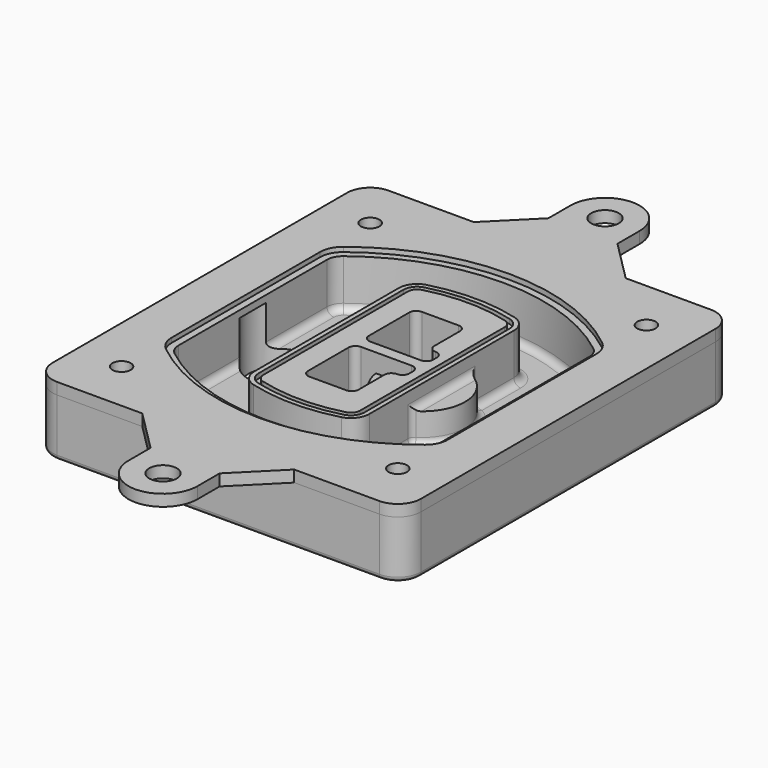
from build123d import *

# Parameters (mm, degrees)
F0_R      = 4
F1_DEPTH  = 25
F2_DEPTH  = 3
F3_DEPTH  = 18
F5_DEPTH  = 21
F6_DEPTH  = 2
F8_DEPTH  = 20
F9_DEPTH  = 16
F10_DEPTH = 25
F7_R      = 6
F7_R_2    = 4
F11_DEPTH = 6
F13_DEPTH = 9
F14_R     = 3
F15_R     = 2
F16_R     = 4
F16_R_2   = 6
F17_DEPTH = 5


with BuildPart() as f1:
    # F0 (on Top) → F1 (new body)
    with BuildSketch(Plane.XY):
        with BuildLine():
            ThreePointArc((-80, -80), (-77.0710678119, -87.0710678119), (-70, -90))
            Line((-70, -90), (70, -90))
            ThreePointArc((70, -90), (77.0710678119, -87.0710678119), (80, -80))
            Line((80, -80), (80, 80))
            ThreePointArc((80, 80), (77.0710678119, 87.0710678119), (70, 90))
            Line((70, 90), (-70, 90))
            ThreePointArc((-70, 90), (-77.0710678119, 87.0710678119), (-80, 80))
            Line((-80, 80), (-80, -80))
        make_face()
        with Locations((-60, -67.5)):
            Circle(F0_R, mode=Mode.SUBTRACT)
        with Locations((60, -67.5)):
            Circle(F0_R, mode=Mode.SUBTRACT)
        with Locations((-60, 67.5)):
            Circle(F0_R, mode=Mode.SUBTRACT)
        with BuildLine():
            ThreePointArc((-64, 40.2934422872), (-62.5820384798, 46.4328484224), (-58.6153846154, 51.3286200352))
            ThreePointArc((-58.6153846154, 51.3286200352), (0, 71.5), (58.6153846154, 51.3286200352))
            ThreePointArc((58.6153846154, 51.3286200352), (62.5820384798, 46.4328484224), (64, 40.2934422872))
            Line((64, 40.2934422872), (64, -40.2934422872))
            ThreePointArc((64, -40.2934422872), (62.5820384798, -46.4328484224), (58.6153846154, -51.3286200352))
            ThreePointArc((58.6153846154, -51.3286200352), (0, -71.5), (-58.6153846154, -51.3286200352))
            ThreePointArc((-58.6153846154, -51.3286200352), (-62.5820384798, -46.4328484224), (-64, -40.2934422872))
            Line((-64, -40.2934422872), (-64, 40.2934422872))
        make_face(mode=Mode.SUBTRACT)
        with Locations((60, 67.5)):
            Circle(F0_R, mode=Mode.SUBTRACT)
        with BuildLine():
            ThreePointArc((58.6153846154, 51.3286200352), (0, 71.5), (-58.6153846154, 51.3286200352))
            ThreePointArc((-58.6153846154, 51.3286200352), (-62.5820384798, 46.4328484224), (-64, 40.2934422872))
            Line((-64, 40.2934422872), (-64, -40.2934422872))
            ThreePointArc((-64, -40.2934422872), (-62.5820384798, -46.4328484224), (-58.6153846154, -51.3286200352))
            ThreePointArc((-58.6153846154, -51.3286200352), (0, -71.5), (58.6153846154, -51.3286200352))
            ThreePointArc((58.6153846154, -51.3286200352), (62.5820384798, -46.4328484224), (64, -40.2934422872))
            Line((64, -40.2934422872), (64, 40.2934422872))
            ThreePointArc((64, 40.2934422872), (62.5820384798, 46.4328484224), (58.6153846154, 51.3286200352))
        make_face()
        with BuildLine():
            Line((-60, -40.2934422872), (-60, 40.2934422872))
            ThreePointArc((-60, 40.2934422872), (-58.9871703427, 44.6787323838), (-56.1538461538, 48.1757121072))
            ThreePointArc((-56.1538461538, 48.1757121072), (0, 67.5), (56.1538461538, 48.1757121072))
            ThreePointArc((56.1538461538, 48.1757121072), (58.9871703427, 44.6787323838), (60, 40.2934422872))
            Line((60, 40.2934422872), (60, -40.2934422872))
            ThreePointArc((60, -40.2934422872), (58.9871703427, -44.6787323838), (56.1538461538, -48.1757121072))
            ThreePointArc((56.1538461538, -48.1757121072), (0, -67.5), (-56.1538461538, -48.1757121072))
            ThreePointArc((-56.1538461538, -48.1757121072), (-58.9871703427, -44.6787323838), (-60, -40.2934422872))
        make_face(mode=Mode.SUBTRACT)
        with BuildLine():
            ThreePointArc((-56.1538461538, 48.1757121072), (-58.9871703427, 44.6787323838), (-60, 40.2934422872))
            Line((-60, 40.2934422872), (-60, -40.2934422872))
            ThreePointArc((-60, -40.2934422872), (-58.9871703427, -44.6787323838), (-56.1538461538, -48.1757121072))
            ThreePointArc((-56.1538461538, -48.1757121072), (0, -67.5), (56.1538461538, -48.1757121072))
            ThreePointArc((56.1538461538, -48.1757121072), (58.9871703427, -44.6787323838), (60, -40.2934422872))
            Line((60, -40.2934422872), (60, 40.2934422872))
            ThreePointArc((60, 40.2934422872), (58.9871703427, 44.6787323838), (56.1538461538, 48.1757121072))
            ThreePointArc((56.1538461538, 48.1757121072), (0, 67.5), (-56.1538461538, 48.1757121072))
        make_face()
        with BuildLine():
            ThreePointArc((54.3076923077, 45.8110311612), (56.2910192399, 43.3631453548), (57, 40.2934422872))
            Line((57, 40.2934422872), (57, -40.2934422872))
            ThreePointArc((57, -40.2934422872), (56.2910192399, -43.3631453548), (54.3076923077, -45.8110311612))
            ThreePointArc((54.3076923077, -45.8110311612), (0, -64.5), (-54.3076923077, -45.8110311612))
            ThreePointArc((-54.3076923077, -45.8110311612), (-56.2910192399, -43.3631453548), (-57, -40.2934422872))
            Line((-57, -40.2934422872), (-57, 40.2934422872))
            ThreePointArc((-57, 40.2934422872), (-56.2910192399, 43.3631453548), (-54.3076923077, 45.8110311612))
            ThreePointArc((-54.3076923077, 45.8110311612), (0, 64.5), (54.3076923077, 45.8110311612))
        make_face(mode=Mode.SUBTRACT)
        with BuildLine():
            Line((57, -40.2934422872), (57, 40.2934422872))
            ThreePointArc((57, 40.2934422872), (56.2910192399, 43.3631453548), (54.3076923077, 45.8110311612))
            ThreePointArc((54.3076923077, 45.8110311612), (0, 64.5), (-54.3076923077, 45.8110311612))
            ThreePointArc((-54.3076923077, 45.8110311612), (-56.2910192399, 43.3631453548), (-57, 40.2934422872))
            Line((-57, 40.2934422872), (-57, -40.2934422872))
            ThreePointArc((-57, -40.2934422872), (-56.2910192399, -43.3631453548), (-54.3076923077, -45.8110311612))
            ThreePointArc((-54.3076923077, -45.8110311612), (0, -64.5), (54.3076923077, -45.8110311612))
            ThreePointArc((54.3076923077, -45.8110311612), (56.2910192399, -43.3631453548), (57, -40.2934422872))
        make_face()
    extrude(amount=-F1_DEPTH)

    # F0 (on Top) → F2 (join)
    with BuildSketch(Plane.XY):
        with BuildLine():
            ThreePointArc((-56.1538461538, 48.1757121072), (-58.9871703427, 44.6787323838), (-60, 40.2934422872))
            Line((-60, 40.2934422872), (-60, -40.2934422872))
            ThreePointArc((-60, -40.2934422872), (-58.9871703427, -44.6787323838), (-56.1538461538, -48.1757121072))
            ThreePointArc((-56.1538461538, -48.1757121072), (0, -67.5), (56.1538461538, -48.1757121072))
            ThreePointArc((56.1538461538, -48.1757121072), (58.9871703427, -44.6787323838), (60, -40.2934422872))
            Line((60, -40.2934422872), (60, 40.2934422872))
            ThreePointArc((60, 40.2934422872), (58.9871703427, 44.6787323838), (56.1538461538, 48.1757121072))
            ThreePointArc((56.1538461538, 48.1757121072), (0, 67.5), (-56.1538461538, 48.1757121072))
        make_face()
        with BuildLine():
            ThreePointArc((54.3076923077, 45.8110311612), (56.2910192399, 43.3631453548), (57, 40.2934422872))
            Line((57, 40.2934422872), (57, -40.2934422872))
            ThreePointArc((57, -40.2934422872), (56.2910192399, -43.3631453548), (54.3076923077, -45.8110311612))
            ThreePointArc((54.3076923077, -45.8110311612), (0, -64.5), (-54.3076923077, -45.8110311612))
            ThreePointArc((-54.3076923077, -45.8110311612), (-56.2910192399, -43.3631453548), (-57, -40.2934422872))
            Line((-57, -40.2934422872), (-57, 40.2934422872))
            ThreePointArc((-57, 40.2934422872), (-56.2910192399, 43.3631453548), (-54.3076923077, 45.8110311612))
            ThreePointArc((-54.3076923077, 45.8110311612), (0, 64.5), (54.3076923077, 45.8110311612))
        make_face(mode=Mode.SUBTRACT)
    extrude(amount=F2_DEPTH)

    # F0 (on Top) → F3 (cut)
    with BuildSketch(Plane.XY):
        with BuildLine():
            Line((57, -40.2934422872), (57, 40.2934422872))
            ThreePointArc((57, 40.2934422872), (56.2910192399, 43.3631453548), (54.3076923077, 45.8110311612))
            ThreePointArc((54.3076923077, 45.8110311612), (0, 64.5), (-54.3076923077, 45.8110311612))
            ThreePointArc((-54.3076923077, 45.8110311612), (-56.2910192399, 43.3631453548), (-57, 40.2934422872))
            Line((-57, 40.2934422872), (-57, -40.2934422872))
            ThreePointArc((-57, -40.2934422872), (-56.2910192399, -43.3631453548), (-54.3076923077, -45.8110311612))
            ThreePointArc((-54.3076923077, -45.8110311612), (0, -64.5), (54.3076923077, -45.8110311612))
            ThreePointArc((54.3076923077, -45.8110311612), (56.2910192399, -43.3631453548), (57, -40.2934422872))
        make_face()
    extrude(amount=-F3_DEPTH, mode=Mode.SUBTRACT)

    # F4 (on face) → F5 (join, through all)
    with BuildSketch(Plane.XY.offset(3)):
        with BuildLine():
            ThreePointArc((-25, -39.2465276821), (-23.3511545998, -44.1109737193), (-19.0842911877, -46.9702398883))
            ThreePointArc((-19.0842911877, -46.9702398883), (0, -49.5), (19.0842911877, -46.9702398883))
            ThreePointArc((19.0842911877, -46.9702398883), (23.3511545998, -44.1109737193), (25, -39.2465276821))
            Line((25, -39.2465276821), (25, 39.2465276821))
            ThreePointArc((25, 39.2465276821), (23.3511545998, 44.1109737193), (19.0842911877, 46.9702398883))
            ThreePointArc((19.0842911877, 46.9702398883), (0, 49.5), (-19.0842911877, 46.9702398883))
            ThreePointArc((-19.0842911877, 46.9702398883), (-23.3511545998, 44.1109737193), (-25, 39.2465276821))
            Line((-25, 39.2465276821), (-25, -39.2465276821))
        make_face()
        with BuildLine():
            ThreePointArc((18.5632183908, 45.0393118368), (21.7633659499, 42.89486221), (23, 39.2465276821))
            Line((23, 39.2465276821), (23, -39.2465276821))
            ThreePointArc((23, -39.2465276821), (21.7633659499, -42.89486221), (18.5632183908, -45.0393118368))
            ThreePointArc((18.5632183908, -45.0393118368), (0, -47.5), (-18.5632183908, -45.0393118368))
            ThreePointArc((-18.5632183908, -45.0393118368), (-21.7633659499, -42.89486221), (-23, -39.2465276821))
            Line((-23, -39.2465276821), (-23, 39.2465276821))
            ThreePointArc((-23, 39.2465276821), (-21.7633659499, 42.89486221), (-18.5632183908, 45.0393118368))
            ThreePointArc((-18.5632183908, 45.0393118368), (0, 47.5), (18.5632183908, 45.0393118368))
        make_face(mode=Mode.SUBTRACT)
        with BuildLine():
            Line((23, -39.2465276821), (23, 39.2465276821))
            ThreePointArc((23, 39.2465276821), (21.7633659499, 42.89486221), (18.5632183908, 45.0393118368))
            ThreePointArc((18.5632183908, 45.0393118368), (0, 47.5), (-18.5632183908, 45.0393118368))
            ThreePointArc((-18.5632183908, 45.0393118368), (-21.7633659499, 42.89486221), (-23, 39.2465276821))
            Line((-23, 39.2465276821), (-23, -39.2465276821))
            ThreePointArc((-23, -39.2465276821), (-21.7633659499, -42.89486221), (-18.5632183908, -45.0393118368))
            ThreePointArc((-18.5632183908, -45.0393118368), (0, -47.5), (18.5632183908, -45.0393118368))
            ThreePointArc((18.5632183908, -45.0393118368), (21.7633659499, -42.89486221), (23, -39.2465276821))
        make_face()
        with BuildLine():
            ThreePointArc((18.0421455939, 43.1083837852), (20.1755772999, 41.6787507007), (21, 39.2465276821))
            Line((21, 39.2465276821), (21, -39.2465276821))
            ThreePointArc((21, -39.2465276821), (20.1755772999, -41.6787507007), (18.0421455939, -43.1083837852))
            ThreePointArc((18.0421455939, -43.1083837852), (0, -45.5), (-18.0421455939, -43.1083837852))
            ThreePointArc((-18.0421455939, -43.1083837852), (-20.1755772999, -41.6787507007), (-21, -39.2465276821))
            Line((-21, -39.2465276821), (-21, 39.2465276821))
            ThreePointArc((-21, 39.2465276821), (-20.1755772999, 41.6787507007), (-18.0421455939, 43.1083837852))
            ThreePointArc((-18.0421455939, 43.1083837852), (0, 45.5), (18.0421455939, 43.1083837852))
        make_face(mode=Mode.SUBTRACT)
        with BuildLine():
            Line((21, -39.2465276821), (21, 39.2465276821))
            ThreePointArc((21, 39.2465276821), (20.1755772999, 41.6787507007), (18.0421455939, 43.1083837852))
            ThreePointArc((18.0421455939, 43.1083837852), (0, 45.5), (-18.0421455939, 43.1083837852))
            ThreePointArc((-18.0421455939, 43.1083837852), (-20.1755772999, 41.6787507007), (-21, 39.2465276821))
            Line((-21, 39.2465276821), (-21, -39.2465276821))
            ThreePointArc((-21, -39.2465276821), (-20.1755772999, -41.6787507007), (-18.0421455939, -43.1083837852))
            ThreePointArc((-18.0421455939, -43.1083837852), (0, -45.5), (18.0421455939, -43.1083837852))
            ThreePointArc((18.0421455939, -43.1083837852), (20.1755772999, -41.6787507007), (21, -39.2465276821))
        make_face()
        with BuildLine():
            Line((-8, -2.5), (14, -2.5))
            ThreePointArc((14, -2.5), (16.1213203436, -3.3786796564), (17, -5.5))
            Line((17, -5.5), (17, -7.5))
            ThreePointArc((17, -7.5), (16.1213203436, -9.6213203436), (14, -10.5))
            ThreePointArc((14, -10.5), (11.8786796564, -11.3786796564), (11, -13.5))
            Line((11, -13.5), (11, -27.5))
            ThreePointArc((11, -27.5), (10.1213203436, -29.6213203436), (8, -30.5))
            Line((8, -30.5), (-8, -30.5))
            ThreePointArc((-8, -30.5), (-10.1213203436, -29.6213203436), (-11, -27.5))
            Line((-11, -27.5), (-11, -5.5))
            ThreePointArc((-11, -5.5), (-10.1213203436, -3.3786796564), (-8, -2.5))
        make_face(mode=Mode.SUBTRACT)
        with BuildLine():
            ThreePointArc((-8, 2.5), (-10.1213203436, 3.3786796564), (-11, 5.5))
            Line((-11, 5.5), (-11, 27.5))
            ThreePointArc((-11, 27.5), (-10.1213203436, 29.6213203436), (-8, 30.5))
            Line((-8, 30.5), (8, 30.5))
            ThreePointArc((8, 30.5), (10.1213203436, 29.6213203436), (11, 27.5))
            Line((11, 27.5), (11, 13.5))
            ThreePointArc((11, 13.5), (11.8786796564, 11.3786796564), (14, 10.5))
            ThreePointArc((14, 10.5), (16.1213203436, 9.6213203436), (17, 7.5))
            Line((17, 7.5), (17, 5.5))
            ThreePointArc((17, 5.5), (16.1213203436, 3.3786796564), (14, 2.5))
            Line((14, 2.5), (-8, 2.5))
        make_face(mode=Mode.SUBTRACT)
    extrude(amount=-F5_DEPTH)

    # F4 (on face) → F6 (cut)
    with BuildSketch(Plane.XY.offset(3)):
        with BuildLine():
            Line((23, -39.2465276821), (23, 39.2465276821))
            ThreePointArc((23, 39.2465276821), (21.7633659499, 42.89486221), (18.5632183908, 45.0393118368))
            ThreePointArc((18.5632183908, 45.0393118368), (0, 47.5), (-18.5632183908, 45.0393118368))
            ThreePointArc((-18.5632183908, 45.0393118368), (-21.7633659499, 42.89486221), (-23, 39.2465276821))
            Line((-23, 39.2465276821), (-23, -39.2465276821))
            ThreePointArc((-23, -39.2465276821), (-21.7633659499, -42.89486221), (-18.5632183908, -45.0393118368))
            ThreePointArc((-18.5632183908, -45.0393118368), (0, -47.5), (18.5632183908, -45.0393118368))
            ThreePointArc((18.5632183908, -45.0393118368), (21.7633659499, -42.89486221), (23, -39.2465276821))
        make_face()
        with BuildLine():
            ThreePointArc((18.0421455939, 43.1083837852), (20.1755772999, 41.6787507007), (21, 39.2465276821))
            Line((21, 39.2465276821), (21, -39.2465276821))
            ThreePointArc((21, -39.2465276821), (20.1755772999, -41.6787507007), (18.0421455939, -43.1083837852))
            ThreePointArc((18.0421455939, -43.1083837852), (0, -45.5), (-18.0421455939, -43.1083837852))
            ThreePointArc((-18.0421455939, -43.1083837852), (-20.1755772999, -41.6787507007), (-21, -39.2465276821))
            Line((-21, -39.2465276821), (-21, 39.2465276821))
            ThreePointArc((-21, 39.2465276821), (-20.1755772999, 41.6787507007), (-18.0421455939, 43.1083837852))
            ThreePointArc((-18.0421455939, 43.1083837852), (0, 45.5), (18.0421455939, 43.1083837852))
        make_face(mode=Mode.SUBTRACT)
    extrude(amount=-F6_DEPTH, mode=Mode.SUBTRACT)

    # F7 (on face) → F8 (join)
    with BuildSketch(Plane(origin=(0, 0, -25), x_dir=(1, 0, 0), z_dir=(0, 0, -1))):
        with BuildLine():
            ThreePointArc((3.28842436, 0), (16.7567035675, 13.4682792075), (30.224982775, 0))
            Line((30.224982775, 0), (35.224982775, 0))
            ThreePointArc((35.224982775, 0), (16.7567035675, 18.4682792075), (-1.71157564, 0))
            Line((-1.71157564, 0), (3.28842436, 0))
        make_face()
        with BuildLine():
            Line((3.28842436, 0), (30.224982775, 0))
            ThreePointArc((30.224982775, 0), (16.7567035675, 13.4682792075), (3.28842436, 0))
        make_face()
        with BuildLine():
            ThreePointArc((3.28842436, 0), (16.7567035675, -13.4682792075), (30.224982775, 0))
            Line((30.224982775, 0), (3.28842436, 0))
        make_face()
        with BuildLine():
            Line((35.224982775, 0), (30.224982775, 0))
            ThreePointArc((30.224982775, 0), (16.7567035675, -13.4682792075), (3.28842436, 0))
            Line((3.28842436, 0), (-1.71157564, 0))
            ThreePointArc((-1.71157564, 0), (16.7567035675, -18.4682792075), (35.224982775, 0))
        make_face()
    extrude(amount=-F8_DEPTH)

    # F7 (on face) → F9 (cut)
    with BuildSketch(Plane(origin=(0, 0, -25), x_dir=(1, 0, 0), z_dir=(0, 0, -1))):
        with BuildLine():
            Line((3.28842436, 0), (30.224982775, 0))
            ThreePointArc((30.224982775, 0), (16.7567035675, 13.4682792075), (3.28842436, 0))
        make_face()
        with BuildLine():
            ThreePointArc((3.28842436, 0), (16.7567035675, -13.4682792075), (30.224982775, 0))
            Line((30.224982775, 0), (3.28842436, 0))
        make_face()
    extrude(amount=-F9_DEPTH, mode=Mode.SUBTRACT)

    # F7 (on face) → F10 (cut)
    with BuildSketch(Plane(origin=(0, 0, -25), x_dir=(1, 0, 0), z_dir=(0, 0, -1))):
        with BuildLine():
            Line((-59.0318229325, 0), (-32.0952645175, 0))
            ThreePointArc((-32.0952645175, 0), (-45.563543725, 13.4682792075), (-59.0318229325, 0))
        make_face()
        with BuildLine():
            ThreePointArc((-59.0318229325, 0), (-45.563543725, -13.4682792075), (-32.0952645175, 0))
            Line((-32.0952645175, 0), (-59.0318229325, 0))
        make_face()
    extrude(amount=-F10_DEPTH, mode=Mode.SUBTRACT)

    # F7 (on face) → F11 (cut)
    with BuildSketch(Plane(origin=(0, 0, -25), x_dir=(1, 0, 0), z_dir=(0, 0, -1))):
        with Locations((60, -67.5)):
            Circle(F7_R)
        with Locations((60, -67.5)):
            Circle(F7_R_2, mode=Mode.SUBTRACT)
        with Locations((60, -67.5)):
            Circle(F7_R)
        with Locations((60, -67.5)):
            Circle(F7_R_2, mode=Mode.SUBTRACT)
        with Locations((-60, -67.5)):
            Circle(F7_R)
        with Locations((-60, -67.5)):
            Circle(F7_R_2, mode=Mode.SUBTRACT)
        with Locations((-60, -67.5)):
            Circle(F7_R)
        with Locations((-60, -67.5)):
            Circle(F7_R_2, mode=Mode.SUBTRACT)
        with Locations((-60, 67.5)):
            Circle(F7_R)
        with Locations((-60, 67.5)):
            Circle(F7_R_2, mode=Mode.SUBTRACT)
        with Locations((-60, 67.5)):
            Circle(F7_R)
        with Locations((-60, 67.5)):
            Circle(F7_R_2, mode=Mode.SUBTRACT)
        with Locations((60, 67.5)):
            Circle(F7_R)
        with Locations((60, 67.5)):
            Circle(F7_R_2, mode=Mode.SUBTRACT)
        with Locations((60, 67.5)):
            Circle(F7_R)
        with Locations((60, 67.5)):
            Circle(F7_R_2, mode=Mode.SUBTRACT)
    extrude(amount=-F11_DEPTH, mode=Mode.SUBTRACT)

    # F12 (on face) → F13 (cut, through all)
    with BuildSketch(Plane(origin=(0, 0, -9), x_dir=(1, 0, 0), z_dir=(0, 0, -1))):
        with BuildLine():
            Line((11, 13.5), (11, 17.5481537753))
            ThreePointArc((11, 17.5481537753), (2.5696536419, 11.8239143813), (-1.5415842455, 2.5))
            Line((-1.5415842455, 2.5), (3.5224848595, 2.5))
            ThreePointArc((3.5224848595, 2.5), (6.1857188154, 8.3455872281), (11.2536447004, 12.2927168648))
            ThreePointArc((11.2536447004, 12.2927168648), (11.0640958889, 12.8831798879), (11, 13.5))
        make_face()
        with BuildLine():
            ThreePointArc((11.2536447004, -12.2927168648), (6.1857188154, -8.3455872281), (3.5224848595, -2.5))
            Line((3.5224848595, -2.5), (-1.5415842455, -2.5))
            ThreePointArc((-1.5415842455, -2.5), (2.5696536419, -11.8239143813), (11, -17.5481537753))
            Line((11, -17.5481537753), (11, -13.5))
            ThreePointArc((11, -13.5), (11.0640958889, -12.8831798879), (11.2536447004, -12.2927168648))
        make_face()
        with BuildLine():
            ThreePointArc((11.2536447004, 12.2927168648), (6.1857188154, 8.3455872281), (3.5224848595, 2.5))
            Line((3.5224848595, 2.5), (14, 2.5))
            ThreePointArc((14, 2.5), (16.1213203436, 3.3786796564), (17, 5.5))
            Line((17, 5.5), (17, 7.5))
            ThreePointArc((17, 7.5), (16.1213203436, 9.6213203436), (14, 10.5))
            ThreePointArc((14, 10.5), (12.3601599782, 10.9878446101), (11.2536447004, 12.2927168648))
        make_face()
        with BuildLine():
            Line((14, -2.5), (3.5224848595, -2.5))
            ThreePointArc((3.5224848595, -2.5), (6.1857188154, -8.3455872281), (11.2536447004, -12.2927168648))
            ThreePointArc((11.2536447004, -12.2927168648), (12.3601599782, -10.9878446101), (14, -10.5))
            ThreePointArc((14, -10.5), (16.1213203436, -9.6213203436), (17, -7.5))
            Line((17, -7.5), (17, -5.5))
            ThreePointArc((17, -5.5), (16.1213203436, -3.3786796564), (14, -2.5))
        make_face()
    extrude(amount=F13_DEPTH, mode=Mode.SUBTRACT)

    # F14
    f14_edges = [f1.edges().sort_by_distance(p)[0] for p in [
        (-57, -23.703476, -18),
        (-57, 23.703476, -18),
        (25, 0, -5),
        (25, 16.526506, -11.5),
        (25, -16.526506, -11.5),
        (25, -27.886517, -18),
        (35.224983, 0, -18),
    ]]
    fillet(f14_edges, radius=F14_R)

    # F15
    f15_edges = [f1.edges().sort_by_distance(p)[0] for p in [
        (0, -90, -25),
    ]]
    fillet(f15_edges, radius=F15_R)


with BuildPart() as f17:
    # F16 (on face) → F17 (new body)
    with BuildSketch(Plane.XY):
        with BuildLine():
            ThreePointArc((15, 120), (0, 135), (-15, 120))
            Line((-15, 120), (-15, 108))
            Line((-15, 108), (-33, 90))
            Line((-33, 90), (-70, 90))
            ThreePointArc((-70, 90), (-77.0710678119, 87.0710678119), (-80, 80))
            Line((-80, 80), (-80, -80))
            ThreePointArc((-80, -80), (-77.0710678119, -87.0710678119), (-70, -90))
            Line((-70, -90), (-33, -90))
            Line((-33, -90), (-15, -108))
            Line((-15, -108), (-15, -120))
            ThreePointArc((-15, -120), (0, -135), (15, -120))
            Line((15, -120), (15, -108))
            Line((15, -108), (33, -90))
            Line((33, -90), (70, -90))
            ThreePointArc((70, -90), (77.0710678119, -87.0710678119), (80, -80))
            Line((80, -80), (80, 80))
            ThreePointArc((80, 80), (77.0710678119, 87.0710678119), (70, 90))
            Line((70, 90), (33, 90))
            Line((33, 90), (15, 108))
            Line((15, 108), (15, 120))
        make_face()
        with Locations((-60, -67.5)):
            Circle(F16_R, mode=Mode.SUBTRACT)
        with Locations((0, -120)):
            Circle(F16_R_2, mode=Mode.SUBTRACT)
        with Locations((60, -67.5)):
            Circle(F16_R, mode=Mode.SUBTRACT)
        with Locations((-60, 67.5)):
            Circle(F16_R, mode=Mode.SUBTRACT)
        with BuildLine():
            ThreePointArc((-56.1538461538, -48.1757121072), (-58.9871703427, -44.6787323838), (-60, -40.2934422872))
            Line((-60, -40.2934422872), (-60, 40.2934422872))
            ThreePointArc((-60, 40.2934422872), (-58.9871703427, 44.6787323838), (-56.1538461538, 48.1757121072))
            ThreePointArc((-56.1538461538, 48.1757121072), (0, 67.8426077954), (56.1538461538, 48.1757121072))
            ThreePointArc((56.1538461538, 48.1757121072), (58.9871703427, 44.6787323838), (60, 40.2934422872))
            Line((60, 40.2934422872), (60, -40.2934422872))
            ThreePointArc((60, -40.2934422872), (58.9871703427, -44.6787323838), (56.1538461538, -48.1757121072))
            ThreePointArc((56.1538461538, -48.1757121072), (0, -67.8426077954), (-56.1538461538, -48.1757121072))
        make_face(mode=Mode.SUBTRACT)
        with Locations((0, 120)):
            Circle(F16_R_2, mode=Mode.SUBTRACT)
        with Locations((60, 67.5)):
            Circle(F16_R, mode=Mode.SUBTRACT)
    extrude(amount=F17_DEPTH)


solid = Compound([f1.part, f17.part])
